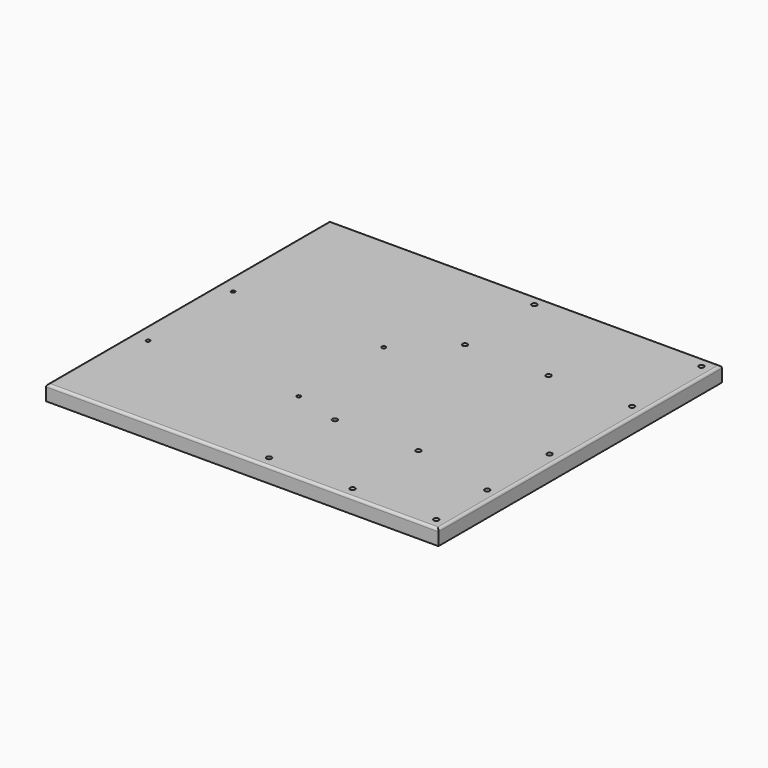
from build123d import *

# Parameters (mm, degrees)
F0_W      = 310
F0_H      = 280
F1_DEPTH  = 12
F2_R      = 2
F3_R      = 2
F4_DEPTH  = 25
F5_R      = 5
F6_DEPTH  = 5
F7_R      = 1.5
F8_DEPTH  = 25
F9_R      = 5
F10_DEPTH = 5


with BuildPart() as f1:
    # F0 (on Top) → F1 (new body)
    with BuildSketch(Plane.XY):
        Rectangle(F0_W, F0_H)
    extrude(amount=F1_DEPTH)

    # F2
    f2_edges = [f1.edges().sort_by_distance(p)[0] for p in [
        (0, -140, 12),
        (155, 0, 12),
        (0, 140, 12),
        (-155, 0, 12),
    ]]
    fillet(f2_edges, radius=F2_R)

    # F3 (on face) → F4 (cut)
    with BuildSketch(Plane.XY.offset(12)):
        with Locations((14, -131)):
            Circle(F3_R)
        with Locations((14, 131)):
            Circle(F3_R)
        with Locations((146, 131)):
            Circle(F3_R)
        with Locations((146, -131)):
            Circle(F3_R)
        with Locations((146, 62.5)):
            Circle(F3_R)
        with Locations((146, -80.5)):
            Circle(F3_R)
        with Locations((14, -66)):
            Circle(F3_R)
        with Locations((14, 62.5)):
            Circle(F3_R)
        with Locations((80, 62.5)):
            Circle(F3_R)
        with Locations((80, -66)):
            Circle(F3_R)
        with Locations((146, -19)):
            Circle(F3_R)
        with Locations((80, -131)):
            Circle(F3_R)
    extrude(amount=-F4_DEPTH, mode=Mode.SUBTRACT)

    # F5 (on face) → F6 (cut)
    with BuildSketch(Plane(origin=(0, 0, 0), x_dir=(1, 0, 0), z_dir=(0, 0, -1))):
        with Locations((14, 131)):
            Circle(F5_R)
        with Locations((14, 66)):
            Circle(F5_R)
        with Locations((146, 80.5)):
            Circle(F5_R)
        with Locations((146, 131)):
            Circle(F5_R)
        with Locations((146, -62.5)):
            Circle(F5_R)
        with Locations((14, -62.5)):
            Circle(F5_R)
        with Locations((14, -131)):
            Circle(F5_R)
        with Locations((146, -131)):
            Circle(F5_R)
        with Locations((80, -62.5)):
            Circle(F5_R)
        with Locations((80, 66)):
            Circle(F5_R)
        with Locations((146, 19)):
            Circle(F5_R)
        with Locations((80, 131)):
            Circle(F5_R)
    extrude(amount=-F6_DEPTH, mode=Mode.SUBTRACT)

    # F7 (on face) → F8 (cut)
    with BuildSketch(Plane.XY.offset(12)):
        with Locations((-142, 28.5)):
            Circle(F7_R)
        with Locations((-23, 28.5)):
            Circle(F7_R)
        with Locations((-23, -55.5)):
            Circle(F7_R)
        with Locations((-142, -55.5)):
            Circle(F7_R)
    extrude(amount=-F8_DEPTH, mode=Mode.SUBTRACT)

    # F9 (on face) → F10 (cut)
    with BuildSketch(Plane(origin=(0, 0, 0), x_dir=(1, 0, 0), z_dir=(0, 0, -1))):
        with Locations((-142, 55.5)):
            Circle(F9_R)
        with Locations((-142, -28.5)):
            Circle(F9_R)
        with Locations((-23, -28.5)):
            Circle(F9_R)
        with Locations((-23, 55.5)):
            Circle(F9_R)
    extrude(amount=-F10_DEPTH, mode=Mode.SUBTRACT)


solid = f1.part
